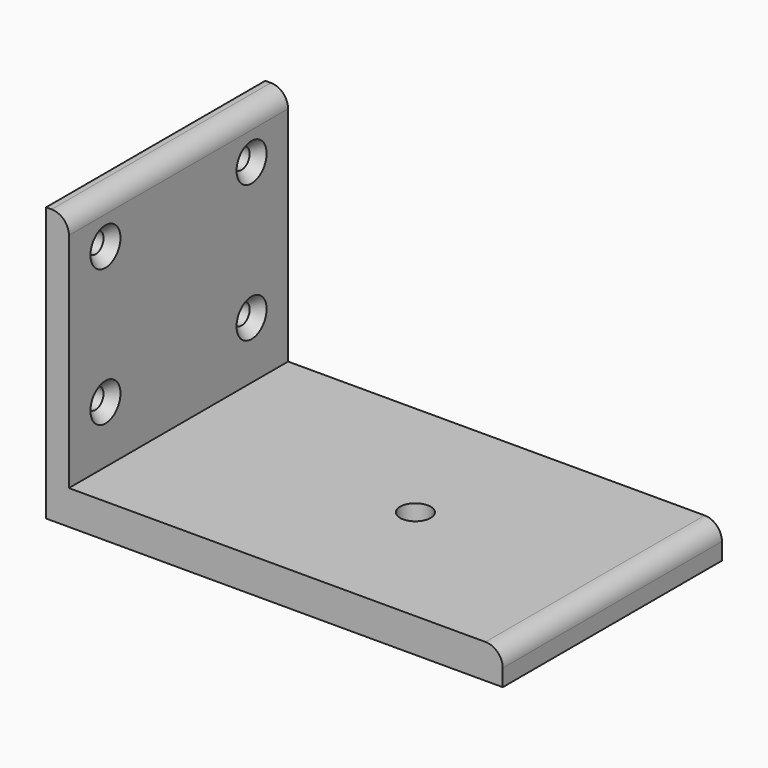
from build123d import *

# Parameters (mm, degrees)
F1_DEPTH       = 76.2
F3_D           = 8.5
F5_D           = 5.6134
F5_CSINK_D     = 10.4394
F5_CSINK_ANGLE = 82


with BuildPart() as f1:
    # F0 (on Front) → F1 (new body)
    with BuildSketch(Plane.XZ):
        with BuildLine():
            Line((0, 76.2), (0, 0))
            Line((0, 0), (127, 0))
            Line((127, 0), (127, 4.725))
            ThreePointArc((127, 4.725), (125.5941125497, 8.1191125497), (122.2, 9.525))
            Line((122.2, 9.525), (6.35, 9.525))
            Line((6.35, 9.525), (6.35, 71.4))
            ThreePointArc((6.35, 71.4), (4.9441125497, 74.7941125497), (1.55, 76.2))
            Line((1.55, 76.2), (0, 76.2))
        make_face()
    extrude(amount=F1_DEPTH)

    # F3 (through all)
    with Locations(Plane.XY.offset(9.525)):
        with Locations((72.23125, -38.1)):
            Hole(F3_D / 2)

    # F5 (through all)
    with Locations(Plane.YZ.offset(6.35)):
        with Locations((-63.5, 63.5), (-63.5, 25.4), (-12.7, 25.4), (-12.7, 63.5)):
            CounterSinkHole(F5_D / 2, F5_CSINK_D / 2, counter_sink_angle=F5_CSINK_ANGLE)


solid = f1.part
